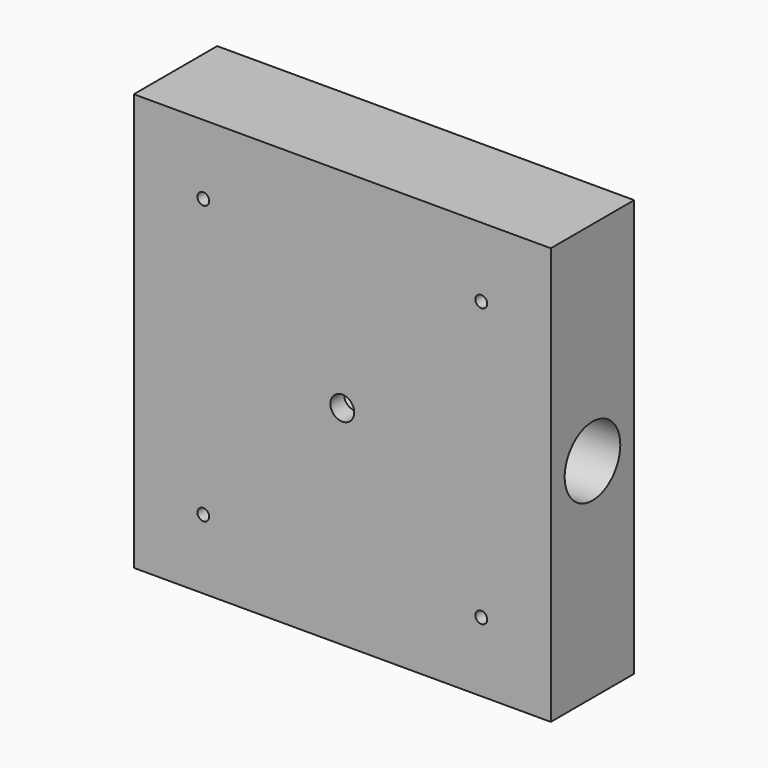
from build123d import *

# Parameters (mm, degrees)
F0_W     = 152.4
F0_H     = 152.4
F1_DEPTH = 38.1
F4_D     = 8.7376
F4_DEPTH = 12.7
F4_TIP   = 2.6250398724
F2_R     = 12.7
F5_DEPTH = 127
F7_D     = 4.318
F7_DEPTH = 38.1
F7_TIP   = 1.2972580765


with BuildPart() as f1:
    # F0 (on Front) → F1 (new body)
    with BuildSketch(Plane.XZ):
        Rectangle(F0_W, F0_H)
    extrude(amount=F1_DEPTH)

    # F4
    with Locations(Plane.XZ.offset(38.1)):
        with Locations((0, 0)):
            Hole(F4_D / 2, depth=F4_DEPTH)
            with Locations((0, 0, -(F4_DEPTH + F4_TIP / 2))):  # 118° drill point
                Cone(0, F4_D / 2, F4_TIP, mode=Mode.SUBTRACT)

    # F2 (on face) → F5 (cut)
    with BuildSketch(Plane.YZ.offset(76.2)):
        with Locations((-19.05, 0)):
            Circle(F2_R)
    extrude(amount=-F5_DEPTH, mode=Mode.SUBTRACT)

    # F7
    with Locations(Plane.XZ.offset(38.1)):
        with Locations((-50.8, 50.8), (50.8, 50.8), (-50.8, -50.8), (50.8, -50.8)):
            Hole(F7_D / 2, depth=F7_DEPTH)
            with Locations((0, 0, -(F7_DEPTH + F7_TIP / 2))):  # 118° drill point
                Cone(0, F7_D / 2, F7_TIP, mode=Mode.SUBTRACT)


solid = f1.part
